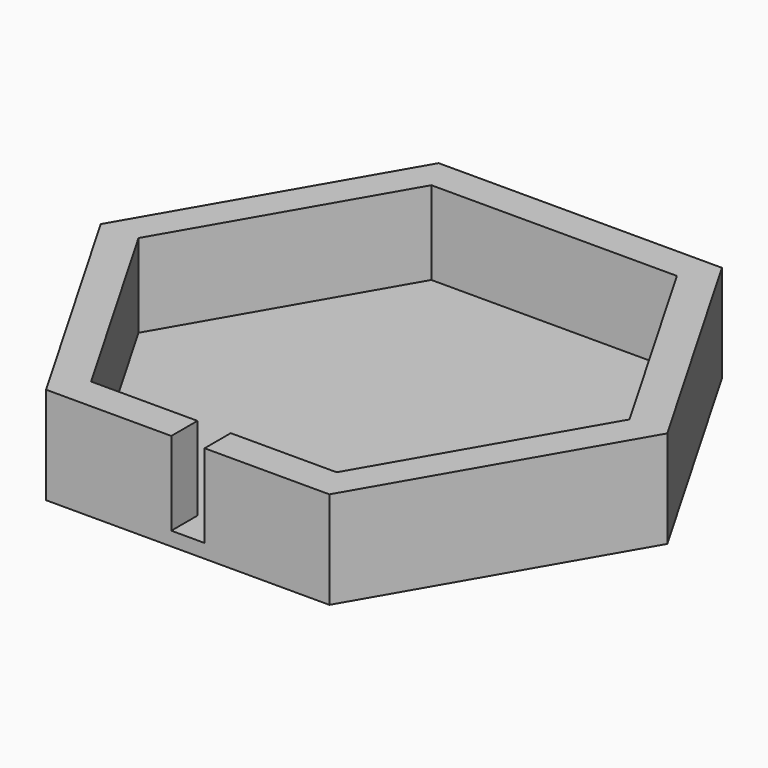
from build123d import *

# Parameters (mm, degrees)
F1_DEPTH = 7
F3_DEPTH = 6
F4_W     = 2.3945512949
F4_H     = 2.3532351479
F5_DEPTH = 6


with BuildPart() as f1:
    # F0 (on Top) → F1 (new body)
    with BuildSketch(Plane.XY):
        Polygon((-10.1898079023, -17.6492650062), (10.1898079023, -17.6492650062), (20.3796158046, 0), (10.1898079023, 17.6492650062), (-10.1898079023, 17.6492650062), (-20.3796158046, 0), align=None)
    extrude(amount=F1_DEPTH)

    # F2 (on face) → F3 (cut)
    with BuildSketch(Plane.XY.offset(7)):
        Polygon((-8.8311669562, -15.2960298583), (8.8311669562, -15.2960298583), (17.6623339124, 0), (8.8311669562, 15.2960298583), (-8.8311669562, 15.2960298583), (-17.6623339124, 0), align=None)
    extrude(amount=-F3_DEPTH, mode=Mode.SUBTRACT)

    # F4 (on face) → F5 (cut)
    with BuildSketch(Plane.XY.offset(7)):
        with Locations((0.0150980777, -16.4726474322)):
            Rectangle(F4_W, F4_H)
    extrude(amount=-F5_DEPTH, mode=Mode.SUBTRACT)


solid = f1.part
